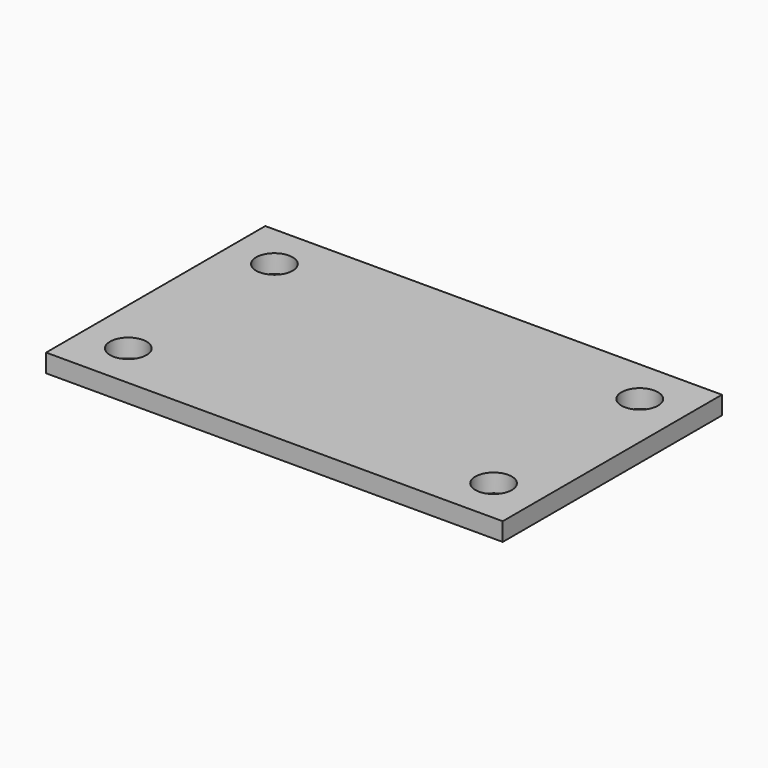
from build123d import *

# Parameters (mm, degrees)
SKETCH_W  = 50
SKETCH_H  = 30
SKETCH_R  = 2
PAD_DEPTH = 2


with BuildPart() as part:
    # Sketch (on XY_Plane of Origin) → Pad (new body)
    with BuildSketch(Plane.XY):
        Rectangle(SKETCH_W, SKETCH_H)
        with Locations((-20, 10)):
            Circle(SKETCH_R, mode=Mode.SUBTRACT)
        with Locations((20, 10)):
            Circle(SKETCH_R, mode=Mode.SUBTRACT)
        with Locations((20, -10)):
            Circle(SKETCH_R, mode=Mode.SUBTRACT)
        with Locations((-20, -10)):
            Circle(SKETCH_R, mode=Mode.SUBTRACT)
    extrude(amount=PAD_DEPTH)


solid = part.part
